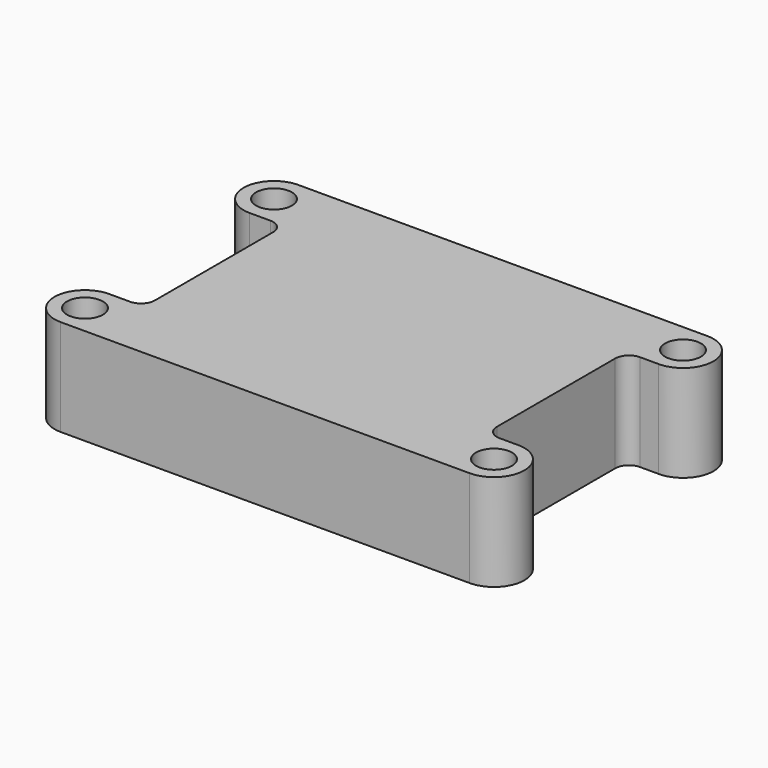
from build123d import *

# Parameters (mm, degrees)
CUBE005_W                     = 5.1
CUBE005_H                     = 5.2
CUBE005_DEPTH                 = 2
CYLINDER003_R                 = 1.3
CYLINDER003_DEPTH             = 7.1
CUBE001_W                     = 4.4
CUBE001_H                     = 5
CUBE001_DEPTH                 = 7
CYLINDER002_R                 = 2.2
CYLINDER002_DEPTH             = 7
DIFFERENCE001_PLACEMENT_ANGLE = 90
CYLINDER005_R                 = 1.3
CYLINDER005_DEPTH             = 7.1
CUBE002_W                     = 4.4
CUBE002_H                     = 5
CUBE002_DEPTH                 = 7
CYLINDER004_R                 = 2.2
CYLINDER004_DEPTH             = 7
DIFFERENCE002_PLACEMENT_ANGLE = 90
CYLINDER007_R                 = 1.3
CYLINDER007_DEPTH             = 7.1
CUBE003_W                     = 4.4
CUBE003_H                     = 5
CUBE003_DEPTH                 = 7
CYLINDER006_R                 = 2.2
CYLINDER006_DEPTH             = 7
DIFFERENCE003_PLACEMENT_ANGLE = 90
CUBE004_W                     = 24.75
CUBE004_H                     = 21.5
CUBE004_DEPTH                 = 7
CYLINDER001_R                 = 1.3
CYLINDER001_DEPTH             = 7.1
CUBE_W                        = 4.4
CUBE_H                        = 5
CUBE_DEPTH                    = 7
CYLINDER_R                    = 2.2
CYLINDER_DEPTH                = 7
DIFFERENCE_PLACEMENT_ANGLE    = 90
FILLET_R                      = 1


with BuildPart() as cube005:
    # cube005 → cube005 (new body)
    with BuildSketch(Plane(origin=(8.8, 1.35, -0.01), x_dir=(1, 0, 0), z_dir=(0, 0, 1))):
        with Locations((2.55, 2.6)):
            Rectangle(CUBE005_W, CUBE005_H)
    extrude(amount=CUBE005_DEPTH)


with BuildPart() as cylinder003:
    # cylinder003 → cylinder003 (new body)
    with BuildSketch(Plane.XY.offset(-0.01)):
        Circle(CYLINDER003_R)
    extrude(amount=CYLINDER003_DEPTH)


with BuildPart() as cube001:
    # cube001 → cube001 (new body)
    with BuildSketch(Plane(origin=(-2.2, 0, 0), x_dir=(1, 0, 0), z_dir=(0, 0, 1))):
        with Locations((2.2, 2.5)):
            Rectangle(CUBE001_W, CUBE001_H)
    extrude(amount=CUBE001_DEPTH)


with BuildPart() as difference001:
    # cylinder002 → cylinder002 (new body)
    with BuildSketch(Plane.XY):
        Circle(CYLINDER002_R)
    extrude(amount=CYLINDER002_DEPTH)

    # union001: union cube001
    add(cube001.part)

    # difference001: cut cylinder003
    add(cylinder003.part, mode=Mode.SUBTRACT)


with BuildPart() as difference001_1:
    # difference001 placement: moved
    add(difference001.part.moved(Location((29.6, 0, 0))).rotate(Axis((29.6, 0, 0), (0, 0, 1)), DIFFERENCE001_PLACEMENT_ANGLE))


with BuildPart() as cylinder005:
    # cylinder005 → cylinder005 (new body)
    with BuildSketch(Plane.XY.offset(-0.01)):
        Circle(CYLINDER005_R)
    extrude(amount=CYLINDER005_DEPTH)


with BuildPart() as cube002:
    # cube002 → cube002 (new body)
    with BuildSketch(Plane(origin=(-2.2, 0, 0), x_dir=(1, 0, 0), z_dir=(0, 0, 1))):
        with Locations((2.2, 2.5)):
            Rectangle(CUBE002_W, CUBE002_H)
    extrude(amount=CUBE002_DEPTH)


with BuildPart() as difference002:
    # cylinder004 → cylinder004 (new body)
    with BuildSketch(Plane.XY):
        Circle(CYLINDER004_R)
    extrude(amount=CYLINDER004_DEPTH)

    # union002: union cube002
    add(cube002.part)

    # difference002: cut cylinder005
    add(cylinder005.part, mode=Mode.SUBTRACT)


with BuildPart() as difference002_1:
    # difference002 placement: moved
    add(difference002.part.moved(Location((29.6, 17.1, 0))).rotate(Axis((29.6, 17.1, 0), (0, 0, 1)), DIFFERENCE002_PLACEMENT_ANGLE))


with BuildPart() as cylinder007:
    # cylinder007 → cylinder007 (new body)
    with BuildSketch(Plane.XY.offset(-0.01)):
        Circle(CYLINDER007_R)
    extrude(amount=CYLINDER007_DEPTH)


with BuildPart() as cube003:
    # cube003 → cube003 (new body)
    with BuildSketch(Plane(origin=(-2.2, 0, 0), x_dir=(1, 0, 0), z_dir=(0, 0, 1))):
        with Locations((2.2, 2.5)):
            Rectangle(CUBE003_W, CUBE003_H)
    extrude(amount=CUBE003_DEPTH)


with BuildPart() as difference003:
    # cylinder006 → cylinder006 (new body)
    with BuildSketch(Plane.XY):
        Circle(CYLINDER006_R)
    extrude(amount=CYLINDER006_DEPTH)

    # union003: union cube003
    add(cube003.part)

    # difference003: cut cylinder007
    add(cylinder007.part, mode=Mode.SUBTRACT)


with BuildPart() as difference003_1:
    # difference003 placement: moved
    add(difference003.part.moved(Location((0, 17.1, 0))).rotate(Axis((0, 17.1, 0), (0, 0, -1)), DIFFERENCE003_PLACEMENT_ANGLE))


with BuildPart() as cube004:
    # cube004 → cube004 (new body)
    with BuildSketch(Plane(origin=(2.5, -2.2, 0), x_dir=(1, 0, 0), z_dir=(0, 0, 1))):
        with Locations((12.375, 10.75)):
            Rectangle(CUBE004_W, CUBE004_H)
    extrude(amount=CUBE004_DEPTH)


with BuildPart() as cylinder001:
    # cylinder001 → cylinder001 (new body)
    with BuildSketch(Plane.XY.offset(-0.01)):
        Circle(CYLINDER001_R)
    extrude(amount=CYLINDER001_DEPTH)


with BuildPart() as cube:
    # cube → cube (new body)
    with BuildSketch(Plane(origin=(-2.2, 0, 0), x_dir=(1, 0, 0), z_dir=(0, 0, 1))):
        with Locations((2.2, 2.5)):
            Rectangle(CUBE_W, CUBE_H)
    extrude(amount=CUBE_DEPTH)


with BuildPart() as fillet_body:
    # cylinder → cylinder (new body)
    with BuildSketch(Plane.XY):
        Circle(CYLINDER_R)
    extrude(amount=CYLINDER_DEPTH)

    # union: union cube
    add(cube.part)

    # difference: cut cylinder001
    add(cylinder001.part, mode=Mode.SUBTRACT)


with BuildPart() as fillet_body_1:
    # difference placement: moved
    add(fillet_body.part.rotate(Axis((0, 0, 0), (0, 0, -1)), DIFFERENCE_PLACEMENT_ANGLE))

    # union004: union difference001, difference002, difference003, cube004
    add(difference001_1.part)
    add(difference002_1.part)
    add(difference003_1.part)
    add(cube004.part)

    # difference004: cut cube005
    add(cube005.part, mode=Mode.SUBTRACT)

    # Fillet
    fillet_edges = [fillet_body_1.edges().sort_by_distance(p)[0] for p in [
        (2.5, 2.2, 3.5),
        (2.5, 14.9, 3.5),
        (27.25, 14.9, 3.5),
        (27.25, 2.2, 3.5),
        (13.9, 1.35, 0.995),
        (11.35, 1.35, 1.99),
        (8.8, 1.35, 0.995),
        (13.9, 3.95, 1.99),
        (13.9, 6.55, 0.995),
        (11.35, 6.55, 1.99),
        (8.8, 6.55, 0.995),
        (8.8, 3.95, 1.99),
    ]]
    fillet(fillet_edges, radius=FILLET_R)


solid = fillet_body_1.part
